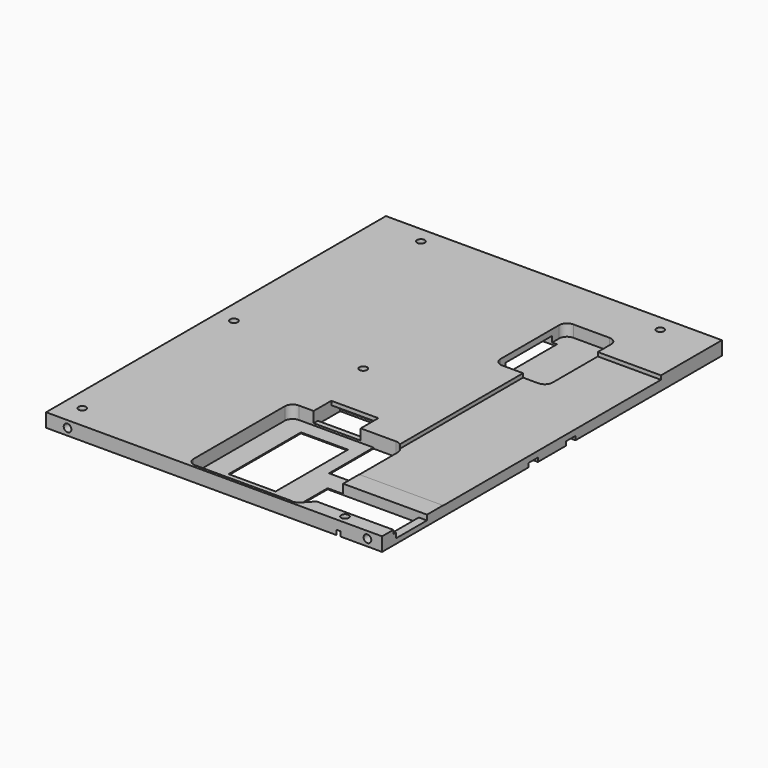
from build123d import *

# Parameters (mm, degrees)
SKETCH017_W     = 171.4
SKETCH017_H     = 216.7
PAD008_DEPTH    = 7
SKETCH020_W     = 61.167203
SKETCH020_H     = 139
POCKET010_DEPTH = 2
POCKET011_DEPTH = 6
SKETCH022_W     = 24
SKETCH022_H     = 138.401909
POCKET012_DEPTH = 5
POCKET014_DEPTH = 1.9
POCKET015_DEPTH = 7
POCKET016_DEPTH = 6.5
POCKET017_DEPTH = 5.5
SKETCH029_W     = 6.217281
SKETCH029_H     = 19.8
POCKET018_DEPTH = 4.5
SKETCH031_W     = 23.945183
SKETCH031_H     = 46.145969
POCKET020_DEPTH = 25
SKETCH033_W     = 12.346496
SKETCH033_H     = 29.812275
POCKET022_DEPTH = 4
SKETCH036_R     = 1.95
POCKET025_DEPTH = 5
SKETCH039_R     = 1.95
POCKET028_DEPTH = 5
SKETCH_W        = 27.295079
SKETCH_H        = 2
SKETCH_W_2      = 27.490026
SKETCH_W_3      = 28.268842
SKETCH_W_4      = 27.05204
PAD_DEPTH       = 1
SKETCH049_R     = 9.5
POCKET030_DEPTH = 3.5
SKETCH053_R     = 4.25
POCKET033_DEPTH = 2.4
SKETCH054_R     = 1.95
POCKET034_DEPTH = 15
SKETCH055_W     = 15.4
SKETCH055_H     = 4.4
SKETCH055_W_2   = 4.4
SKETCH055_H_2   = 15.4
POCKET035_DEPTH = 4.4
SKETCH057_W     = 4
SKETCH057_H     = 6
POCKET036_DEPTH = 2
SKETCH060_R     = 1.95
POCKET038_DEPTH = 5


with BuildPart() as part:
    # Sketch017 → Pad008 (new body)
    with BuildSketch(Plane(origin=(0, 0, -8), x_dir=(-1, 0, 0), z_dir=(0, 0, -1))):
        with Locations((-6.555, 0)):
            Rectangle(SKETCH017_W, SKETCH017_H)
    extrude(amount=-PAD008_DEPTH)

    # Sketch020 (on DatumPlane) → Pocket010 (cut)
    with BuildSketch(Plane.XY.offset(-1)):
        with Locations((78.757783, 0)):
            Rectangle(SKETCH020_W, SKETCH020_H)
    extrude(amount=-POCKET010_DEPTH, mode=Mode.SUBTRACT)

    # Sketch021 (on DatumPlane) → Pocket011 (cut)
    with BuildSketch(Plane.XY.offset(-1)):
        with BuildLine():
            ThreePointArc((60, 78.009018), (58.828427, 80.837445), (56, 82.009018))
            Line((37.5, 82.009018), (56, 82.009018))
            ThreePointArc((37.5, 82.009018), (34.671573, 80.837445), (33.5, 78.009018))
            Line((33.5, 40.652546), (33.5, 78.009018))
            ThreePointArc((33.5, 40.652546), (34.671573, 37.824119), (37.5, 36.652546))
            Line((56, 36.652546), (37.5, 36.652546))
            ThreePointArc((56, 36.652546), (58.828427, 37.824119), (60, 40.652546))
            Line((60, 78.009018), (60, 40.652546))
        make_face()
    extrude(amount=-POCKET011_DEPTH, mode=Mode.SUBTRACT)

    # Sketch022 (on DatumPlane) → Pocket012 (cut)
    with BuildSketch(Plane(origin=(0, 0, -8), x_dir=(1, 0, 0), z_dir=(0, 0, -1))):
        with Locations((15.400889, -30.961346)):
            Rectangle(SKETCH022_W, SKETCH022_H)
    extrude(amount=-POCKET012_DEPTH, mode=Mode.SUBTRACT)

    # Sketch025 (on DatumPlane) → Pocket014 (cut)
    with BuildSketch(Plane.XY.offset(-1)):
        with BuildLine():
            Line((93.246833, -69.304718), (61.387916, -69.304718))
            Line((61.387916, -69.304718), (55.011108, -64.243446))
            Line((55.011108, -64.243446), (41.330532, -64.243446))
            Line((41.330532, -64.243446), (41.330532, -102.943491))
            ThreePointArc((41.330532, -102.943491), (44.021527, -106.897224), (48.686769, -105.844145))
            Line((48.686769, -105.844145), (53.077853, -101.141844))
            Line((53.077853, -101.141844), (93.246833, -101.141844))
            Line((93.246833, -101.141844), (93.246833, -69.304718))
        make_face()
    extrude(amount=-POCKET014_DEPTH, mode=Mode.SUBTRACT)

    # Sketch026 (on DatumPlane) → Pocket015 (cut)
    with BuildSketch(Plane.XY.offset(-1)):
        Polygon((41.572746, -79.724867), (88.10059, -79.724867), (88.10059, -99.524867), (50.134747, -99.524867), (49.401962, -100.487076), (41.572746, -100.487076), (41.572746, -99.426659), align=None)
    extrude(amount=-POCKET015_DEPTH, mode=Mode.SUBTRACT)

    # Sketch027 (on DatumPlane) → Pocket016 (cut)
    with BuildSketch(Plane.XY.offset(-1)):
        with BuildLine():
            ThreePointArc((-4.121528, -40.918728), (-6.949955, -42.090301), (-8.121528, -44.918728))
            Line((-8.121528, -102.988314), (-8.121528, -44.918728))
            ThreePointArc((-8.121528, -102.988314), (-6.949955, -105.816741), (-4.121528, -106.988314))
            Line((45.499925, -106.988314), (-4.121528, -106.988314))
            ThreePointArc((45.499925, -106.988314), (48.328352, -105.816741), (49.499925, -102.988314))
            Line((49.499925, -44.918728), (49.499925, -102.988314))
            ThreePointArc((49.499925, -44.918728), (48.328352, -42.090301), (45.499925, -40.918728))
            Line((-4.121528, -40.918728), (45.499925, -40.918728))
        make_face()
    extrude(amount=-POCKET016_DEPTH, mode=Mode.SUBTRACT)

    # Sketch028 (on DatumPlane) → Pocket017 (cut)
    with BuildSketch(Plane.XY.offset(-1)):
        Polygon((3.400889, -29.656117), (27.400889, -29.656117), (27.400889, -41.656117), (3.400889, -41.797379), align=None)
    extrude(amount=-POCKET017_DEPTH, mode=Mode.SUBTRACT)

    # Sketch029 (on DatumPlane) → Pocket018 (cut)
    with BuildSketch(Plane.XY.offset(-1)):
        with Locations((91.20923, -89.624867)):
            Rectangle(SKETCH029_W, SKETCH029_H)
    extrude(amount=-POCKET018_DEPTH, mode=Mode.SUBTRACT)

    # Sketch031 (on DatumPlane) → Pocket020 (cut)
    with BuildSketch(Plane.XY.offset(-1)):
        with Locations((15.154121, -71.770674)):
            Rectangle(SKETCH031_W, SKETCH031_H)
        with BuildLine():
            Line((33.974045, -40.918728), (45.499925, -40.918728))
            ThreePointArc((49.499925, -44.918728), (48.328352, -42.090301), (45.499925, -40.918728))
            Line((49.499925, -44.918728), (49.499925, -69.331493))
            Line((49.499925, -69.331493), (33.974045, -69.331493))
            Line((33.974045, -69.331493), (33.974045, -40.918728))
        make_face()
    extrude(amount=-POCKET020_DEPTH, mode=Mode.SUBTRACT)

    # Sketch033 (on DatumPlane) → Pocket022 (cut)
    with BuildSketch(Plane(origin=(0, 0, -8), x_dir=(1, 0, 0), z_dir=(0, 0, -1))):
        with Locations((29.792881, -58.674055)):
            Rectangle(SKETCH033_W, SKETCH033_H)
    extrude(amount=-POCKET022_DEPTH, mode=Mode.SUBTRACT)

    # Sketch036 (on Face3 of Pad008) → Pocket025 (cut)
    with BuildSketch(Plane.XZ.offset(108.35)):
        with Locations((-68.2, -4.5)):
            Circle(SKETCH036_R)
        with Locations((84.8, -4.5)):
            Circle(SKETCH036_R)
    extrude(amount=-POCKET025_DEPTH, mode=Mode.SUBTRACT)

    # Sketch039 (on Face1 of Pad008) → Pocket028 (cut)
    with BuildSketch(Plane(origin=(0, 108.35, 0), x_dir=(-1, 0, 0), z_dir=(0, 1, 0))):
        with Locations((-84.8, -4.5)):
            Circle(SKETCH039_R)
        with Locations((68.2, -4.5)):
            Circle(SKETCH039_R)
    extrude(amount=-POCKET028_DEPTH, mode=Mode.SUBTRACT)

    # Sketch (on DatumPlane) → Pad (join)
    with BuildSketch(Plane(origin=(0, 0, -8), x_dir=(1, 0, 0), z_dir=(0, 0, -1))):
        with Locations((16.35246, 23)):
            Rectangle(SKETCH_W, SKETCH_H)
        with Locations((16.254987, -9)):
            Rectangle(SKETCH_W_2, SKETCH_H)
        with Locations((15.865579, -41)):
            Rectangle(SKETCH_W_3, SKETCH_H)
        with Locations((16.47398, -79)):
            Rectangle(SKETCH_W_4, SKETCH_H)
    extrude(amount=-PAD_DEPTH)

    # Sketch049 (on DatumPlane) → Pocket030 (cut)
    with BuildSketch(Plane(origin=(0, 0, -8), x_dir=(1, 0, 0), z_dir=(0, 0, -1))):
        with Locations((-67, -90)):
            Circle(SKETCH049_R)
        with Locations((80, -90)):
            Circle(SKETCH049_R)
        with Locations((80, 70)):
            Circle(SKETCH049_R)
        with Locations((-67, 70)):
            Circle(SKETCH049_R)
    extrude(amount=-POCKET030_DEPTH, mode=Mode.SUBTRACT)

    # Sketch053 (on DatumPlane) → Pocket033 (cut)
    with BuildSketch(Plane(origin=(0, 0, -8), x_dir=(1, 0, 0), z_dir=(0, 0, -1))):
        with Locations((-70, 0)):
            Circle(SKETCH053_R)
        with Locations((-4, 0)):
            Circle(SKETCH053_R)
        with Locations((70, 104.200928)):
            Circle(SKETCH053_R)
        with Locations((-70, 96.649681)):
            Circle(SKETCH053_R)
        with Locations((67.474617, -100)):
            Circle(SKETCH053_R)
        with Locations((-54.612518, -100)):
            Circle(SKETCH053_R)
    extrude(amount=-POCKET033_DEPTH, mode=Mode.SUBTRACT)

    # Sketch054 (on DatumPlane) → Pocket034 (cut)
    with BuildSketch(Plane(origin=(0, 0, -8), x_dir=(1, 0, 0), z_dir=(0, 0, -1))):
        with Locations((-70, 96.649681)):
            Circle(SKETCH054_R)
        with Locations((70, 104.170845)):
            Circle(SKETCH054_R)
        with Locations((-4, 0)):
            Circle(SKETCH054_R)
        with Locations((-70, 0)):
            Circle(SKETCH054_R)
        with Locations((-54.612518, -100)):
            Circle(SKETCH054_R)
        with Locations((67.474617, -100)):
            Circle(SKETCH054_R)
    extrude(amount=-POCKET034_DEPTH, mode=Mode.SUBTRACT)

    # Sketch055 (on DatumPlane) → Pocket035 (cut)
    with BuildSketch(Plane(origin=(0, 0, -8), x_dir=(1, 0, 0), z_dir=(0, 0, -1))):
        with Locations((-39.835839, -92.167499)):
            Rectangle(SKETCH055_W, SKETCH055_H)
        with Locations((-52.2, 37.941446)):
            Rectangle(SKETCH055_W_2, SKETCH055_H_2)
        with Locations((-52.2, 12.541446)):
            Rectangle(SKETCH055_W_2, SKETCH055_H_2)
        with Locations((-52.2, -12.858554)):
            Rectangle(SKETCH055_W_2, SKETCH055_H_2)
        with Locations((-52.2, -38.258554)):
            Rectangle(SKETCH055_W_2, SKETCH055_H_2)
        with Locations((-14.435839, -92.167499)):
            Rectangle(SKETCH055_W, SKETCH055_H)
        with Locations((-50.851364, 98.832999)):
            Rectangle(SKETCH055_W, SKETCH055_H)
        with Locations((-25.451364, 98.832999)):
            Rectangle(SKETCH055_W, SKETCH055_H)
        with Locations((42.388664, 25.651083)):
            Rectangle(SKETCH055_W_2, SKETCH055_H_2)
        with Locations((42.388664, 0.251083)):
            Rectangle(SKETCH055_W_2, SKETCH055_H_2)
        with Locations((42.388664, -25.148917)):
            Rectangle(SKETCH055_W_2, SKETCH055_H_2)
        with Locations((78.951774, -74.70213)):
            Rectangle(SKETCH055_W, SKETCH055_H)
        with Locations((50.78279, -99.61552)):
            Rectangle(SKETCH055_W, SKETCH055_H)
    extrude(amount=-POCKET035_DEPTH, mode=Mode.SUBTRACT)

    # Sketch057 (on DatumPlane) → Pocket036 (cut)
    with BuildSketch(Plane(origin=(0, 0, -8), x_dir=(1, 0, 0), z_dir=(0, 0, -1))):
        with Locations((90.650505, 12)):
            Rectangle(SKETCH057_W, SKETCH057_H)
        with Locations((90.650505, -12)):
            Rectangle(SKETCH057_W, SKETCH057_H)
    extrude(amount=-POCKET036_DEPTH, mode=Mode.SUBTRACT)

    # Sketch060 (on DatumPlane) → Pocket038 (cut)
    with BuildSketch(Plane(origin=(-79.145, 0, 0), x_dir=(0, -1, 0), z_dir=(-1, 0, 0))):
        with Locations((-54.5, -4.5)):
            Circle(SKETCH060_R)
        with Locations((54.5, -4.5)):
            Circle(SKETCH060_R)
    extrude(amount=-POCKET038_DEPTH, mode=Mode.SUBTRACT)


solid = part.part
